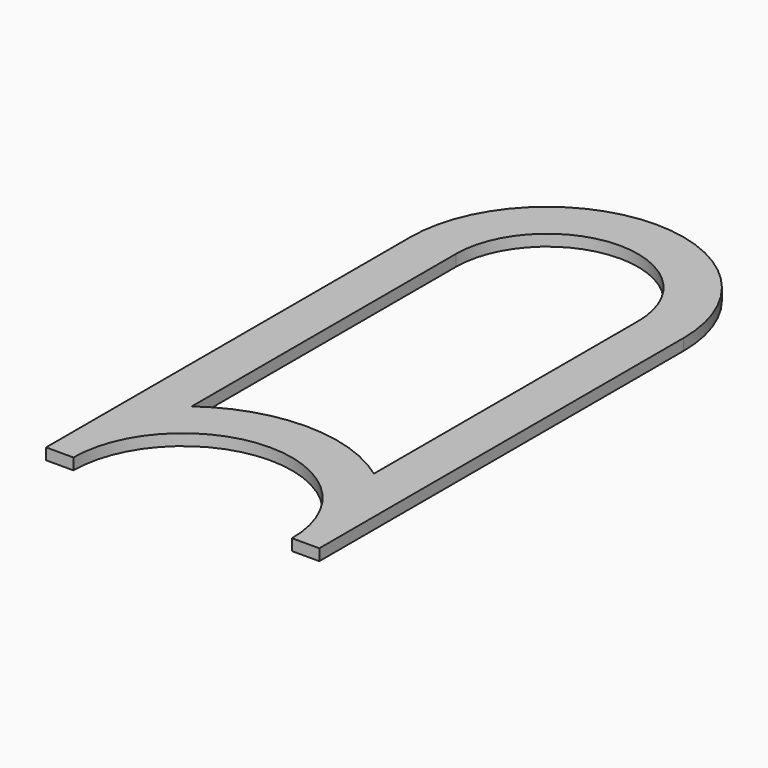
from build123d import *

# Parameters (mm, degrees)
F1_DEPTH = 25


with BuildPart() as f1:
    # F0 (on Top) → F1 (new body)
    with BuildSketch(Plane.XY):
        with BuildLine():
            Line((-48.90696, 967.395362), (-48.90696, -32.604638))
            Line((-48.90696, -32.604638), (11.09304, -32.604638))
            ThreePointArc((11.09304, -32.604638), (251.09304, 207.395362), (491.09304, -32.604638))
            Line((491.09304, -32.604638), (551.09304, -32.604638))
            Line((551.09304, -32.604638), (551.09304, 967.395362))
            ThreePointArc((551.09304, 967.395362), (251.09304, 1267.395362), (-48.90696, 967.395362))
        make_face()
        with BuildLine():
            Line((451.09304, 967.395362), (451.09304, 242.349903))
            ThreePointArc((451.09304, 242.349903), (251.09304, 307.395362), (51.09304, 242.349903))
            Line((51.09304, 242.349903), (51.09304, 967.395362))
            ThreePointArc((51.09304, 967.395362), (251.09304, 1167.395362), (451.09304, 967.395362))
        make_face(mode=Mode.SUBTRACT)
    extrude(amount=F1_DEPTH)


solid = f1.part
